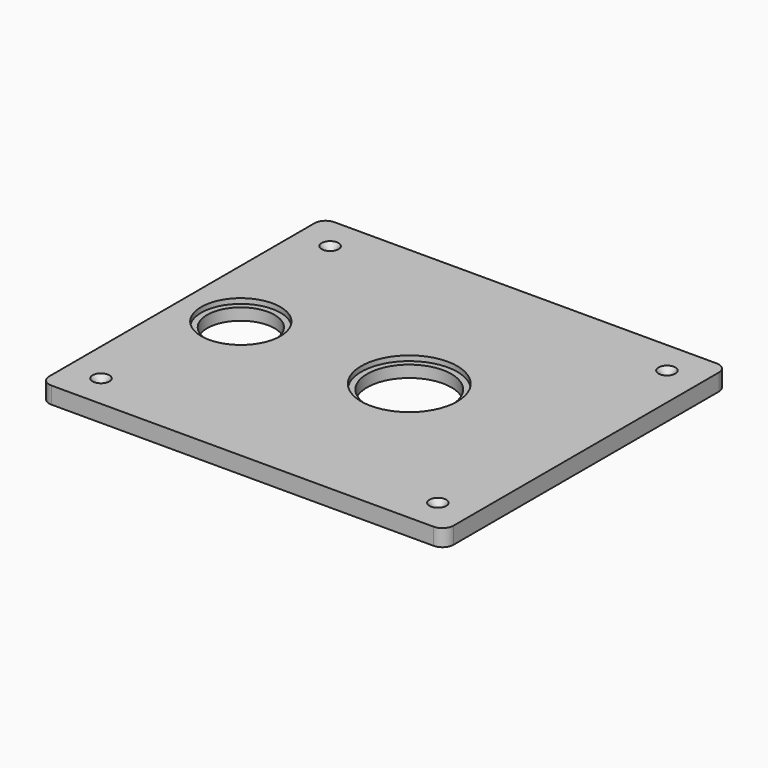
from build123d import *

# Parameters (mm, degrees)
F0_R           = 20
F0_R_2         = 25
F1_DEPTH       = 10
F2_R           = 23.5
F2_R_2         = 20
F2_R_3         = 28.5
F2_R_4         = 25
F3_DEPTH       = 3
F4_D           = 3
F4_CSINK_D     = 10
F4_CSINK_ANGLE = 90


with BuildPart() as f1:
    # F0 (on Top) → F1 (new body)
    with BuildSketch(Plane.XY):
        with BuildLine():
            Line((98.5, 105), (-128.5, 105))
            ThreePointArc((-128.5, 105), (-133.096194, 103.096194), (-135, 98.5))
            Line((-135, 98.5), (-135, -98.5))
            ThreePointArc((-135, -98.5), (-133.096194, -103.096194), (-128.5, -105))
            Line((-128.5, -105), (98.5, -105))
            ThreePointArc((98.5, -105), (103.096194, -103.096194), (105, -98.5))
            Line((105, -98.5), (105, 98.5))
            ThreePointArc((105, 98.5), (103.096194, 103.096194), (98.5, 105))
        make_face()
        with Locations((-100, 0)):
            Circle(F0_R, mode=Mode.SUBTRACT)
        Circle(F0_R_2, mode=Mode.SUBTRACT)
    extrude(amount=-F1_DEPTH)

    # F2 (on face) → F3 (cut)
    with BuildSketch(Plane.XY):
        with Locations((-100, 0)):
            Circle(F2_R)
        with Locations((-100, 0)):
            Circle(F2_R_2, mode=Mode.SUBTRACT)
        Circle(F2_R_3)
        Circle(F2_R_4, mode=Mode.SUBTRACT)
    extrude(amount=-F3_DEPTH, mode=Mode.SUBTRACT)

    # F4 (through all)
    with Locations(Plane.XY):
        with Locations((-115, 85), (85, 85), (85, -85), (-115, -85)):
            CounterSinkHole(F4_D / 2, F4_CSINK_D / 2, counter_sink_angle=F4_CSINK_ANGLE)


solid = f1.part
